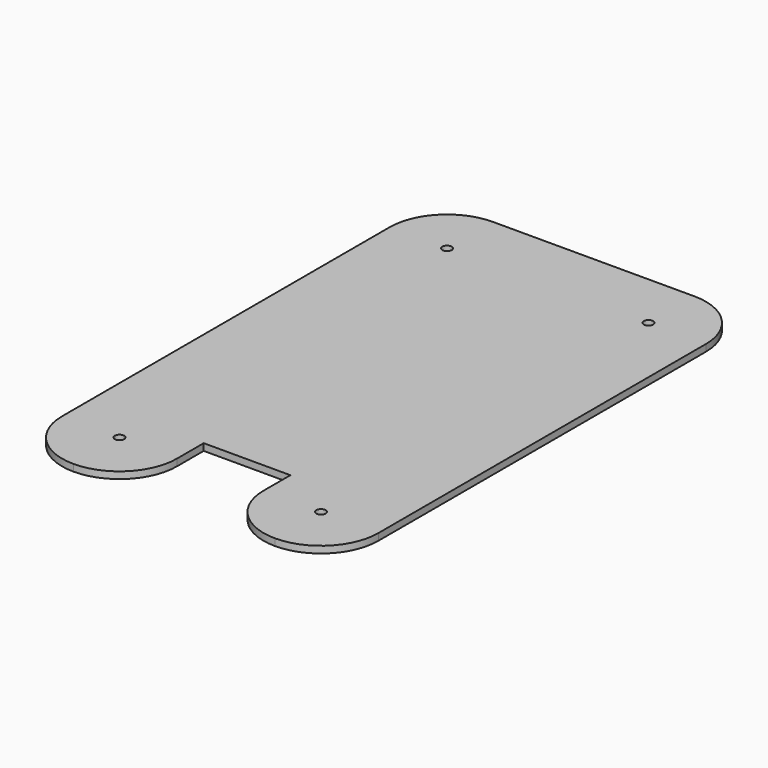
from build123d import *

# Parameters (mm, degrees)
F0_R     = 2.75
F1_DEPTH = 4
F2_W     = 287.6251339912
F2_H     = 352.3535430431
F3_DEPTH = 25
F5_DEPTH = 25


with BuildPart() as f1:
    # F0 (on Top) → F1 (new body)
    with BuildSketch(Plane.XY):
        with BuildLine():
            ThreePointArc((92.7, 122.49998), (83.576376234, 144.526356234), (61.55, 153.64998))
            Line((61.55, 153.64998), (-61.55, 153.64998))
            ThreePointArc((-61.55, 153.64998), (-83.576376234, 144.526356234), (-92.7, 122.49998))
            Line((-92.7, 122.49998), (-92.7, -122.49998))
            ThreePointArc((-92.7, -122.49998), (-83.576376234, -144.526356234), (-61.55, -153.64998))
            Line((-61.55, -153.64998), (61.55, -153.64998))
            ThreePointArc((61.55, -153.64998), (83.576376234, -144.526356234), (92.7, -122.49998))
            Line((92.7, -122.49998), (92.7, 122.49998))
        make_face()
        with Locations((-59.05, -119.99998)):
            Circle(F0_R, mode=Mode.SUBTRACT)
        with Locations((59.05, -119.99998)):
            Circle(F0_R, mode=Mode.SUBTRACT)
        with Locations((-59.05, 119.99998)):
            Circle(F0_R, mode=Mode.SUBTRACT)
        with Locations((59.05, 119.99998)):
            Circle(F0_R, mode=Mode.SUBTRACT)
    extrude(amount=F1_DEPTH)

    # F2 (on face) → F3 (cut)
    with BuildSketch(Plane.XY.offset(4)):
        Rectangle(F2_W, F2_H)
        with BuildLine():
            ThreePointArc((-92.7, 119.99998), (-82.8441431869, 143.7941231869), (-59.05, 153.64998))
            Line((-59.05, 153.64998), (59.05, 153.64998))
            ThreePointArc((59.05, 153.64998), (82.8441431869, 143.7941231869), (92.7, 119.99998))
            Line((92.7, 119.99998), (92.7, -119.99998))
            ThreePointArc((92.7, -119.99998), (82.8441431869, -143.7941231869), (59.05, -153.64998))
            Line((59.05, -153.64998), (-59.05, -153.64998))
            ThreePointArc((-59.05, -153.64998), (-82.8441431869, -143.7941231869), (-92.7, -119.99998))
            Line((-92.7, -119.99998), (-92.7, 119.99998))
        make_face(mode=Mode.SUBTRACT)
    extrude(amount=-F3_DEPTH, mode=Mode.SUBTRACT)

    # F4 (on face) → F5 (cut)
    with BuildSketch(Plane.XY.offset(4)):
        with BuildLine():
            ThreePointArc((59.05, -153.64998), (35.2558568131, -143.7941231869), (25.4, -119.99998))
            Line((25.4, -119.99998), (25.4, -100.35002))
            Line((25.4, -100.35002), (0, -100.35002))
            Line((0, -100.35002), (-25.4, -100.35002))
            Line((-25.4, -100.35002), (-25.4, -119.99998))
            ThreePointArc((-25.4, -119.99998), (-35.2558568131, -143.7941231869), (-59.05, -153.64998))
            Line((-59.05, -153.64998), (59.05, -153.64998))
        make_face()
    extrude(amount=-F5_DEPTH, mode=Mode.SUBTRACT)


solid = f1.part
